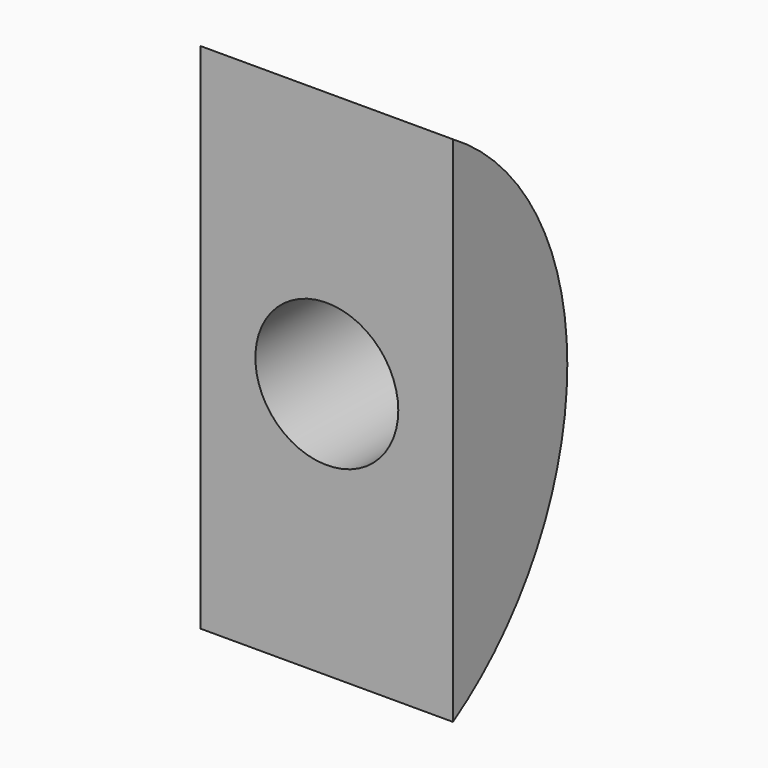
from build123d import *

# Parameters (mm, degrees)
F1_DEPTH = 15
F2_R     = 4.25
F3_DEPTH = 25


with BuildPart() as f1:
    # F0 (on Right) → F1 (new body)
    with BuildSketch(Plane.YZ):
        with BuildLine():
            ThreePointArc((0, -15.25), (8.5, 0), (0, 15.25))
            Line((0, 15.25), (0, -15.25))
        make_face()
    extrude(amount=F1_DEPTH)

    # F2 (on face) → F3 (cut)
    with BuildSketch(Plane.XZ):
        with Locations((7.5, 0)):
            Circle(F2_R)
    extrude(amount=-F3_DEPTH, mode=Mode.SUBTRACT)


solid = f1.part
